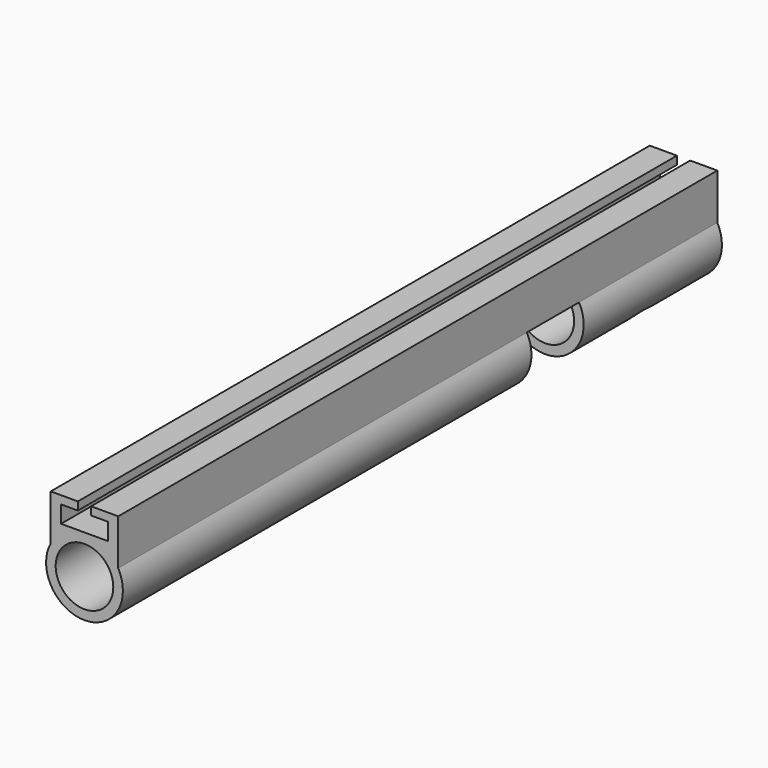
from build123d import *

# Parameters (mm, degrees)
F0_R     = 10
F0_R_2   = 7.5
F1_DEPTH = 195
F2_R     = 7.5
F3_DEPTH = 25
F4_W     = 25.85132
F4_H     = 17
F5_DEPTH = 25
F6_DEPTH = 6.9
F8_DEPTH = 195


with BuildPart() as f1:
    # F0 (on Front) → F1 (new body)
    with BuildSketch(Plane.XZ):
        Circle(F0_R)
        Circle(F0_R_2, mode=Mode.SUBTRACT)
    extrude(amount=F1_DEPTH)

    # F2 (on Top) → F3 (cut)
    with BuildSketch(Plane.XY):
        with Locations((0, -22.5)):
            Circle(F2_R)
    extrude(amount=-F3_DEPTH, mode=Mode.SUBTRACT)

    # F4 (on Top) → F5 (cut)
    with BuildSketch(Plane.XY):
        with Locations((0, -53.5)):
            Rectangle(F4_W, F4_H)
    extrude(amount=-F5_DEPTH, mode=Mode.SUBTRACT)

    # F4 (on Top) → F6 (cut)
    with BuildSketch(Plane.XY):
        with Locations((0, -53.5)):
            Rectangle(F4_W, F4_H)
    extrude(amount=F6_DEPTH, mode=Mode.SUBTRACT)

    # F7 (on Front) → F8 (join)
    with BuildSketch(Plane.XZ):
        with BuildLine():
            ThreePointArc((6.1, 7.924014), (7.611905, 6.485284), (8.79225, 4.764068))
            Line((8.79225, 4.764068), (8.79225, 5.520866))
            Line((8.79225, 5.520866), (8.79225, 16.675162))
            Line((8.79225, 16.675162), (1.726435, 16.675162))
            Line((1.726435, 16.675162), (1.726435, 14.56902))
            Line((1.726435, 14.56902), (6.1, 14.56902))
            Line((6.1, 14.56902), (6.1, 10.11902))
            Line((6.1, 10.11902), (6.1, 7.924014))
        make_face()
        with BuildLine():
            Line((-8.79225, 5.520866), (-8.79225, 4.764068))
            ThreePointArc((-8.79225, 4.764068), (-7.611905, 6.485284), (-6.1, 7.924014))
            Line((-6.1, 7.924014), (-6.1, 10.11902))
            Line((-6.1, 10.11902), (-6.1, 14.56902))
            Line((-6.1, 14.56902), (-1.726435, 14.56902))
            Line((-1.726435, 14.56902), (-1.726435, 16.675162))
            Line((-1.726435, 16.675162), (-8.79225, 16.675162))
            Line((-8.79225, 16.675162), (-8.79225, 5.520866))
        make_face()
        with BuildLine():
            Line((-6.1, 10.11902), (-6.1, 7.924014))
            ThreePointArc((-6.1, 7.924014), (0, 10), (6.1, 7.924014))
            Line((6.1, 7.924014), (6.1, 10.11902))
            Line((6.1, 10.11902), (-6.1, 10.11902))
        make_face()
    extrude(amount=F8_DEPTH)


solid = f1.part
